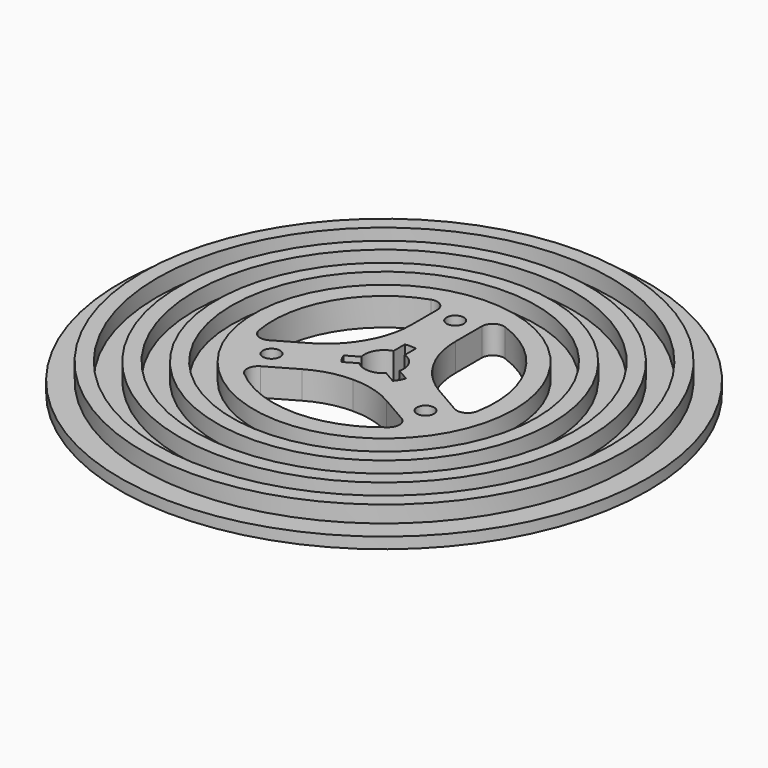
from build123d import *

# Parameters (mm, degrees)
F2_R     = 1.55
F3_DEPTH = 5.001
F4_R     = 15
F5_R     = 2


with BuildPart() as f1:
    # F0 (on Front) → F1 (revolve)
    with BuildSketch(Plane.XZ):
        Polygon((0, 0), (47.5, 0), (47.5, 2), (43.5, 2), (43.5, 5), (40.8, 5), (40.8, 2), (36.8, 2), (36.8, 5), (34.1, 5), (34.1, 2), (30.1, 2), (30.1, 5), (27.4, 5), (27.4, 2), (23.4, 2), (23.4, 5), (0, 5), align=None)
    revolve(axis=Axis((0, 0, 0.333373), (0, 0, -1)))

    # F2 (on face) → F3 (cut, through all)
    with BuildSketch(Plane.XY.offset(5)):
        with BuildLine():
            ThreePointArc((3.427323, -0.824065), (3.05274, 1.7625), (1, 3.380181))
            Line((1, 3.380181), (1, 5.91608))
            ThreePointArc((1, 5.91608), (0, 6), (-1, 5.91608))
            Line((-1, 5.91608), (-1, 3.380181))
            ThreePointArc((-1, 3.380181), (-3.05274, 1.7625), (-3.427323, -0.824065))
            Line((-3.427323, -0.824065), (-5.623475, -2.092014))
            ThreePointArc((-5.623475, -2.092014), (-5.196152, -3), (-4.623475, -3.824065))
            Line((-4.623475, -3.824065), (-2.427323, -2.556116))
            ThreePointArc((-2.427323, -2.556116), (0, -3.525), (2.427323, -2.556116))
            Line((2.427323, -2.556116), (4.623475, -3.824065))
            ThreePointArc((4.623475, -3.824065), (5.196152, -3), (5.623475, -2.092014))
            Line((5.623475, -2.092014), (3.427323, -0.824065))
        make_face()
        with BuildLine():
            ThreePointArc((-6.974937, 0.59182), (-6.062178, 3.5), (-4, 5.744563))
            Line((-4, 5.744563), (-4, 19.595918))
            ThreePointArc((-4, 19.595918), (-17.320508, 10), (-18.970563, -6.333857))
            Line((-18.970563, -6.333857), (-6.974937, 0.59182))
        make_face()
        with BuildLine():
            Line((4, 19.595918), (4, 5.744563))
            ThreePointArc((4, 5.744563), (6.062178, 3.5), (6.974937, 0.59182))
            Line((6.974937, 0.59182), (18.970563, -6.333857))
            ThreePointArc((18.970563, -6.333857), (17.320508, 10), (4, 19.595918))
        make_face()
        with Locations((0, 16)):
            Circle(F2_R)
        with BuildLine():
            ThreePointArc((2.974937, -6.336383), (0, -7), (-2.974937, -6.336383))
            Line((-2.974937, -6.336383), (-14.970563, -13.262061))
            ThreePointArc((-14.970563, -13.262061), (0, -20), (14.970563, -13.262061))
            Line((14.970563, -13.262061), (2.974937, -6.336383))
        make_face()
        with Locations((-13.856406, -8)):
            Circle(F2_R)
        with Locations((13.856406, -8)):
            Circle(F2_R)
    extrude(amount=-F3_DEPTH, mode=Mode.SUBTRACT)

    # F4
    f4_edges = [f1.edges().sort_by_distance(p)[0] for p in [
        (4, 5.744563, 2.5),
        (6.974937, 0.59182, 2.5),
        (-2.974937, -6.336383, 2.5),
        (2.974937, -6.336383, 2.5),
        (-4, 5.744563, 2.5),
        (-6.974937, 0.59182, 2.5),
    ]]
    fillet(f4_edges, radius=F4_R)

    # F5
    f5_edges = [f1.edges().sort_by_distance(p)[0] for p in [
        (-4, 19.595918, 2.5),
        (4, 19.595918, 2.5),
        (-18.970563, -6.333857, 2.5),
        (-14.970563, -13.262061, 2.5),
        (14.970563, -13.262061, 2.5),
        (18.970563, -6.333857, 2.5),
    ]]
    fillet(f5_edges, radius=F5_R)


solid = f1.part
